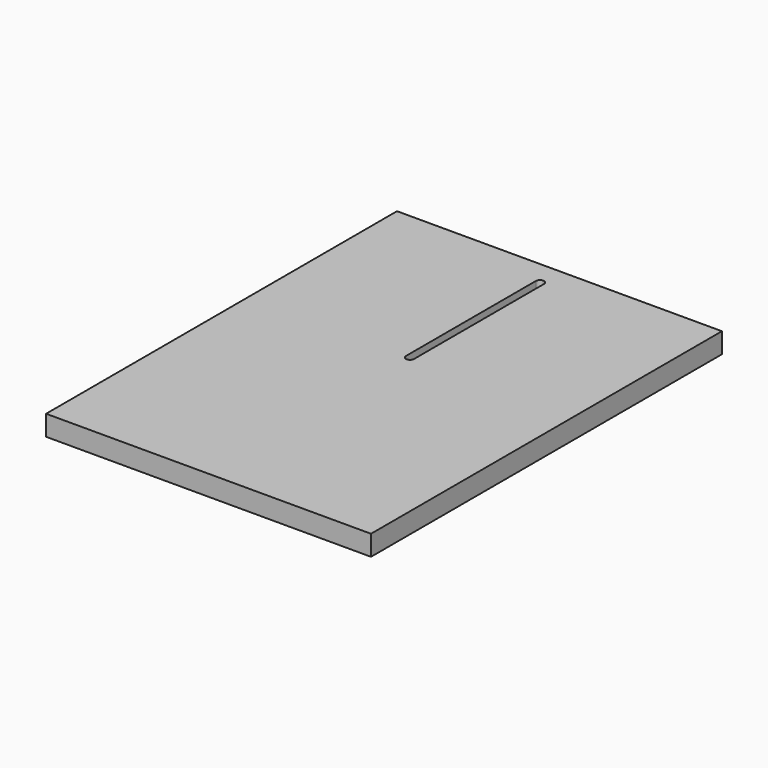
from build123d import *

# Parameters (mm, degrees)
F0_W     = 508
F0_H     = 685.8
F1_DEPTH = 31.75
F3_DEPTH = 31.75


with BuildPart() as f1:
    # F0 (on Top) → F1 (new body)
    with BuildSketch(Plane.XY):
        Rectangle(F0_W, F0_H)
    extrude(amount=F1_DEPTH)

    # F2 (on face) → F3 (cut)
    with BuildSketch(Plane.XY.offset(31.75)):
        with BuildLine():
            ThreePointArc((-6.35, 304.8), (0, 298.45), (6.35, 304.8))
            ThreePointArc((6.35, 304.8), (0, 311.15), (-6.35, 304.8))
        make_face()
        with BuildLine():
            ThreePointArc((-6.35, 50.8), (0, 44.45), (6.35, 50.8))
            ThreePointArc((6.35, 50.8), (0, 57.15), (-6.35, 50.8))
        make_face()
        with BuildLine():
            Line((6.35, 50.8), (6.35, 304.8))
            ThreePointArc((6.35, 304.8), (0, 298.45), (-6.35, 304.8))
            Line((-6.35, 304.8), (-6.35, 50.8))
            ThreePointArc((-6.35, 50.8), (0, 57.15), (6.35, 50.8))
        make_face()
    extrude(amount=-F3_DEPTH, mode=Mode.SUBTRACT)


solid = f1.part
